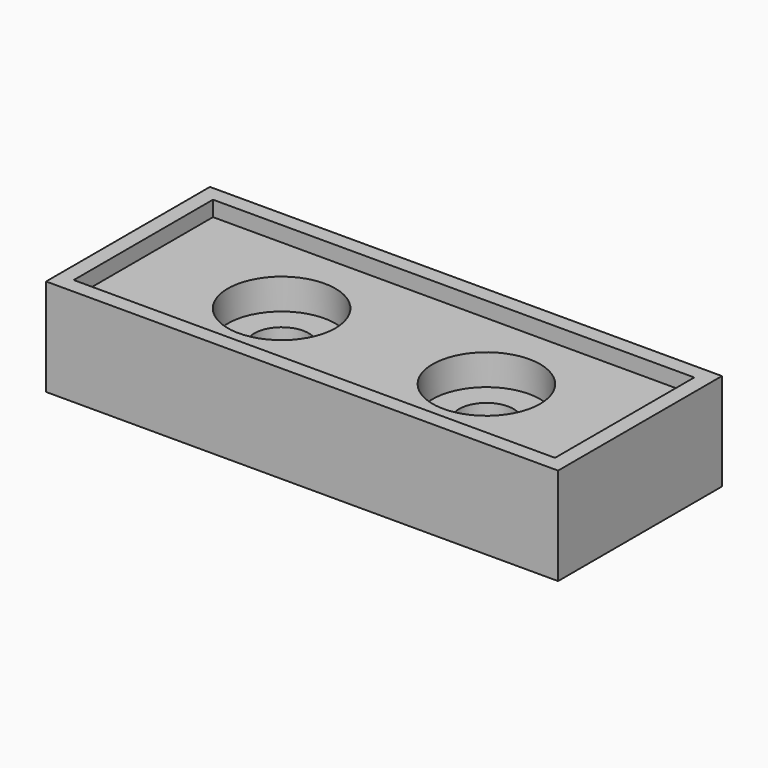
from build123d import *

# Parameters (mm, degrees)
F0_W           = 50
F0_H           = 20
F1_DEPTH       = 8
F3_D           = 5.3
F3_CBORE_D     = 10.5
F3_CBORE_DEPTH = 3
F4_W           = 50
F4_H           = 20
F4_W_2         = 47
F4_H_2         = 17
F5_DEPTH       = 1.5


with BuildPart() as f1:
    # F0 (on Top) → F1 (new body)
    with BuildSketch(Plane.XY):
        with Locations((25, 10)):
            Rectangle(F0_W, F0_H)
    extrude(amount=F1_DEPTH)

    # F3 (through all)
    with Locations(Plane.XY.offset(8)):
        with Locations((15, 10), (35, 10)):
            CounterBoreHole(F3_D / 2, F3_CBORE_D / 2, F3_CBORE_DEPTH)

    # F4 (on face) → F5 (join)
    with BuildSketch(Plane.XY.offset(8)):
        with Locations((25, 10)):
            Rectangle(F4_W, F4_H)
        with Locations((25, 10)):
            Rectangle(F4_W_2, F4_H_2, mode=Mode.SUBTRACT)
    extrude(amount=F5_DEPTH)


solid = f1.part
